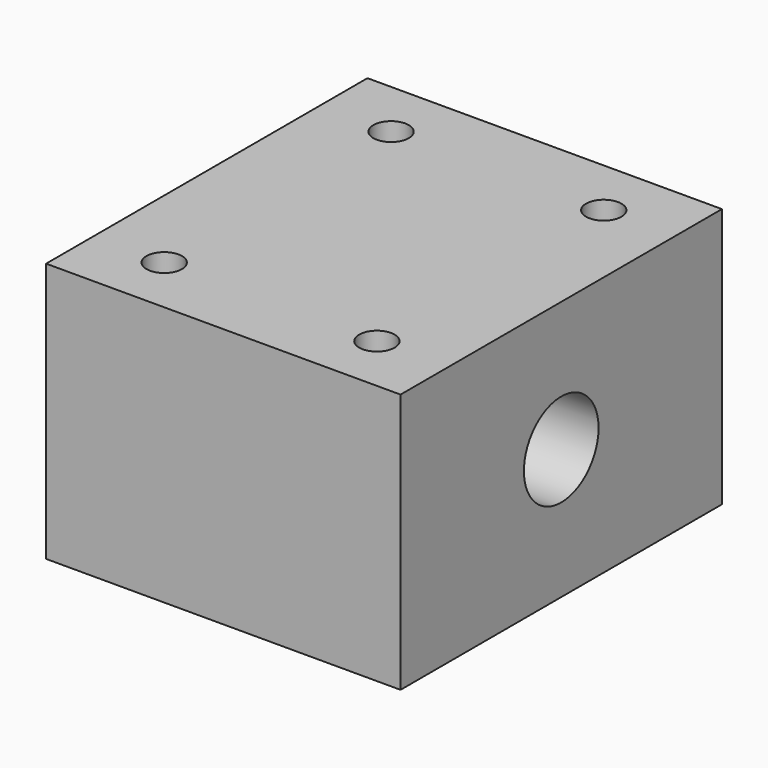
from build123d import *

# Parameters (mm, degrees)
F0_W     = 30
F0_H     = 34
F0_R     = 1.5
F1_DEPTH = 22
F2_R     = 3.95
F3_DEPTH = 32.7


with BuildPart() as f1:
    # F0 (on Top) → F1 (new body)
    with BuildSketch(Plane.XY):
        with Locations((-15, 17)):
            Rectangle(F0_W, F0_H)
        with Locations((-24, 5)):
            Circle(F0_R, mode=Mode.SUBTRACT)
        with Locations((-6, 5)):
            Circle(F0_R, mode=Mode.SUBTRACT)
        with Locations((-24, 29)):
            Circle(F0_R, mode=Mode.SUBTRACT)
        with Locations((-6, 29)):
            Circle(F0_R, mode=Mode.SUBTRACT)
    extrude(amount=F1_DEPTH)

    # F2 (on face) → F3 (cut)
    with BuildSketch(Plane.YZ):
        with Locations((17, 11)):
            Circle(F2_R)
    extrude(amount=-F3_DEPTH, mode=Mode.SUBTRACT)


solid = f1.part
